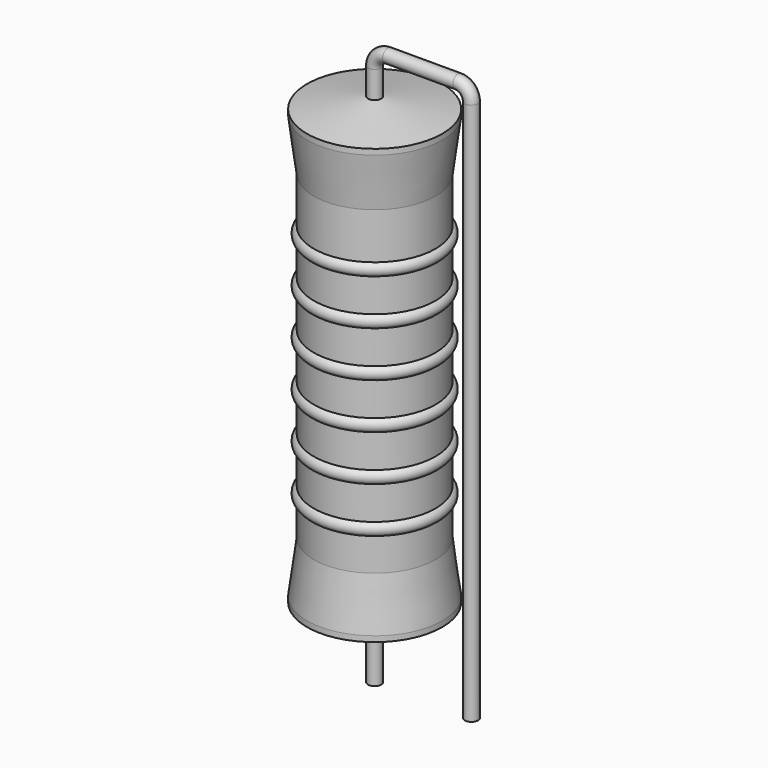
from build123d import *

# Parameters (mm, degrees)
SKETCH_R = 0.35


with BuildPart() as sweep_body:
    # Sweep: sweep along a path in Sketch001
    with BuildLine(Plane.XZ) as sweep_path:
        Line((0, -3), (0, 25.5))
        ThreePointArc((0, 25.5), (0.205029, 25.994979), (0.700011, 26.2))
        Line((0.700011, 26.2), (4.38, 26.2))
        ThreePointArc((4.38, 26.2), (4.874975, 25.994975), (5.08, 25.5))
        Line((5.08, 25.5), (5.08, -3))
    # Sketch → Sweep (sweep)
    with BuildSketch(Plane.XY.offset(-2)):
        Circle(SKETCH_R)
    sweep(path=sweep_path.line)


with BuildPart() as revolution:
    # Sketch002 → Revolution (revolve)
    with BuildSketch(Plane.XZ):
        Polygon((0, 0.1), (0, 24.1), (0.2625, 24.1), (3.55, 23.5), (3.55, 23.2075), (3.195, 20.5), (3.195, 3.7), (3.55, 0.9925), (3.55, 0.7), (0.2625, 0.1), align=None)
    revolve(axis=Axis((0, 0, 0), (0, 0, 1)))


with BuildPart() as revolution001:
    # Sketch003 → Revolution001 (revolve)
    with BuildSketch(Plane.XZ):
        with BuildLine():
            Line((2.84, 19.79), (2.84, 3.7))
            Line((2.84, 3.7), (3.053, 3.7))
            Line((3.053, 3.7), (3.053, 5.39))
            ThreePointArc((3.053, 5.39), (3.408, 5.745), (3.053, 6.1))
            Line((3.053, 6.1), (3.053, 7.79))
            ThreePointArc((3.053, 7.79), (3.408, 8.145), (3.053, 8.5))
            Line((3.053, 8.5), (3.053, 10.19))
            ThreePointArc((3.053, 10.19), (3.408, 10.545), (3.053, 10.9))
            Line((3.053, 10.9), (3.053, 12.59))
            ThreePointArc((3.053, 12.59), (3.408, 12.945), (3.053, 13.3))
            Line((3.053, 13.3), (3.053, 14.99))
            ThreePointArc((3.053, 14.99), (3.408, 15.345), (3.053, 15.7))
            Line((3.053, 15.7), (3.053, 17.39))
            ThreePointArc((3.053, 17.39), (3.408, 17.745), (3.053, 18.1))
            Line((3.053, 19.79), (3.053, 18.1))
            Line((2.84, 19.79), (3.053, 19.79))
        make_face()
    revolve(axis=Axis((0, 0, 0), (0, 0, 1)))


solid = Compound([sweep_body.part, revolution.part, revolution001.part])
